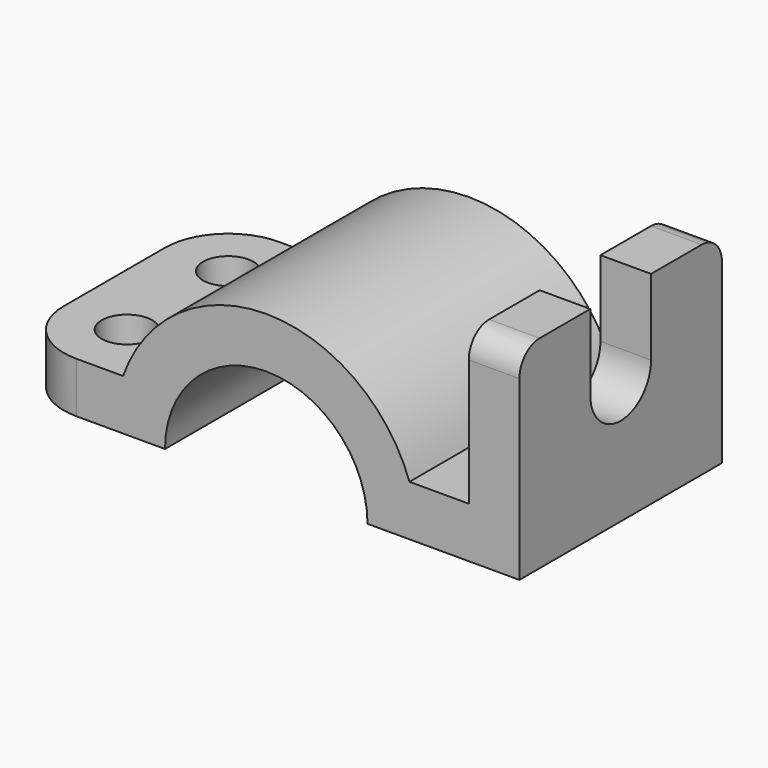
from build123d import *

# Parameters (mm, degrees)
PAD_DEPTH    = 25
PAD001_DEPTH = 10
FILLET_R     = 12.5
FILLET001_R  = 12.5
FILLET002_R  = 5
FILLET003_R  = 5
SKETCH002_R  = 5
POCKET_DEPTH = 10.001


with BuildPart() as part:
    # Sketch → Pad (new body, symmetric)
    with BuildSketch(Plane.XZ):
        with BuildLine():
            Line((-50, 0), (-20, 0))
            ThreePointArc((20, 0), (0, 20), (-20, 0))
            Line((20, 0), (50, 0))
            Line((50, 0), (50, 10))
            Line((28.284271, 10), (50, 10))
            ThreePointArc((28.284271, 10), (0, 30), (-28.284271, 10))
            Line((-50, 10), (-28.284271, 10))
            Line((-50, 0), (-50, 10))
        make_face()
    extrude(amount=PAD_DEPTH, both=True)

    # Sketch001 → Pad001 (new body)
    with BuildSketch(Plane(origin=(50, 0, 0), x_dir=(0, 0, 1), z_dir=(1, 0, 0))):
        with BuildLine():
            Line((0, 25), (40, 25))
            Line((40, 25), (40, 7.5))
            Line((40, 7.5), (24.999965, 7.5))
            ThreePointArc((24.999965, 7.5), (17.5, -1.8e-05), (25, -7.5))
            Line((40, -7.5), (25, -7.5))
            Line((40, -25), (40, -7.5))
            Line((0, -25), (40, -25))
            Line((0, 25), (0, -25))
        make_face()
    extrude(amount=-PAD001_DEPTH)

    # Fillet
    fillet_edges = [part.edges().sort_by_distance(p)[0] for p in [
        (-50, -25, 5),
    ]]
    fillet(fillet_edges, radius=FILLET_R)

    # Fillet001
    fillet001_edges = [part.edges().sort_by_distance(p)[0] for p in [
        (-50, 25, 5),
    ]]
    fillet(fillet001_edges, radius=FILLET001_R)

    # Fillet002
    fillet002_edges = [part.edges().sort_by_distance(p)[0] for p in [
        (45, -25, 40),
    ]]
    fillet(fillet002_edges, radius=FILLET002_R)

    # Fillet003
    fillet003_edges = [part.edges().sort_by_distance(p)[0] for p in [
        (45, 25, 40),
    ]]
    fillet(fillet003_edges, radius=FILLET003_R)

    # Sketch002 → Pocket (cut, through all)
    with BuildSketch(Plane(origin=(0, 0, 10), x_dir=(-1, 0, 0), z_dir=(0, 0, 1))):
        with Locations((37.5, 12.5)):
            Circle(SKETCH002_R)
        with Locations((37.5, -12.5)):
            Circle(SKETCH002_R)
    extrude(amount=-POCKET_DEPTH, mode=Mode.SUBTRACT)


solid = part.part
